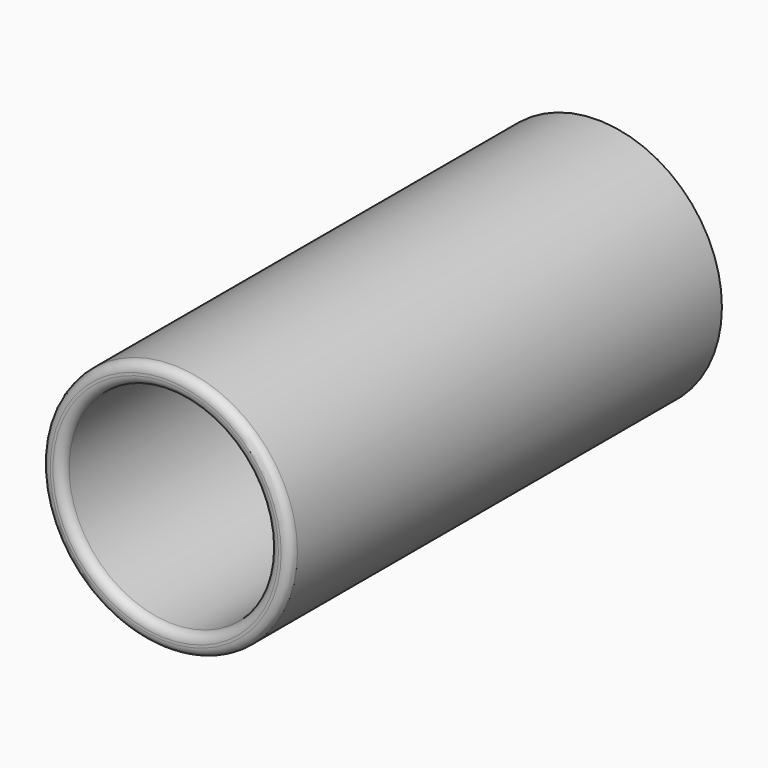
from build123d import *

# Parameters (mm, degrees)
F0_R     = 30
F0_R_2   = 25
F1_DEPTH = 5
F2_DEPTH = 130
F3_R     = 2.172792
F4_R     = 2.172792


with BuildPart() as f1:
    # F0 (on Front) → F1 (new body)
    with BuildSketch(Plane.XZ):
        Circle(F0_R)
        Circle(F0_R_2, mode=Mode.SUBTRACT)
        Circle(F0_R_2)
    extrude(amount=F1_DEPTH)

    # F0 (on Front) → F2 (join)
    with BuildSketch(Plane.XZ):
        Circle(F0_R)
        Circle(F0_R_2, mode=Mode.SUBTRACT)
    extrude(amount=F2_DEPTH)

    # F3
    f3_edges = [f1.edges().sort_by_distance(p)[0] for p in [
        (-30, -130, 0),
    ]]
    fillet(f3_edges, radius=F3_R)

    # F4
    f4_edges = [f1.edges().sort_by_distance(p)[0] for p in [
        (-25, -130, 0),
    ]]
    fillet(f4_edges, radius=F4_R)


solid = f1.part
